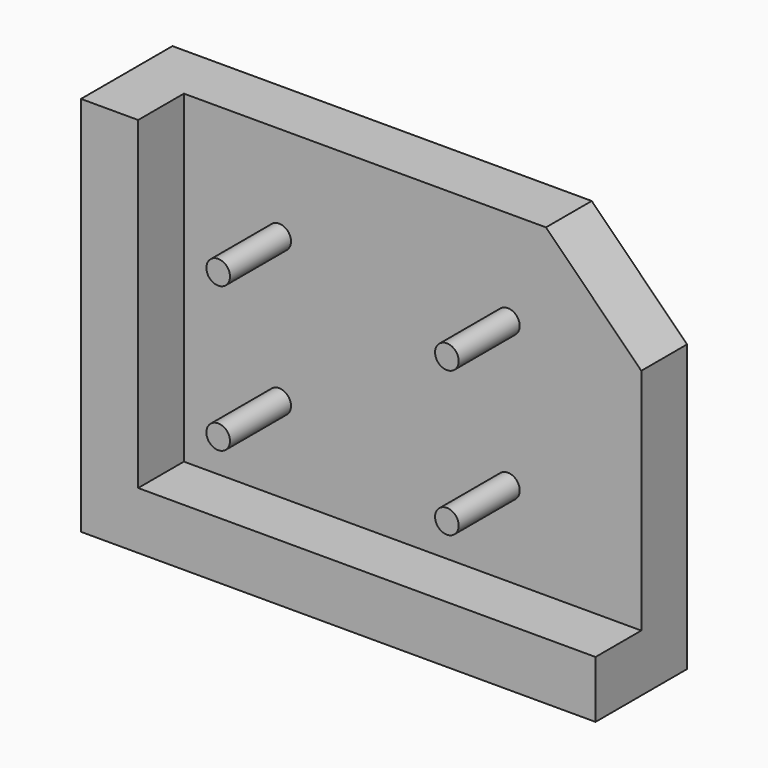
from build123d import *

# Parameters (mm, degrees)
F1_DEPTH = 38.1
F2_W     = 19.05
F2_H     = 107.95
F3_DEPTH = 152.4
F4_SIZE  = 31.75
F5_R     = 3.937
F6_DEPTH = 25.4


with BuildPart() as f1:
    # F0 (on Front) → F1 (new body)
    with BuildSketch(Plane.XZ):
        Polygon((0, 0), (9.30349, 0), (171.45, 0), (171.45, 19.05), (19.05, 19.05), (19.05, 127), (0, 127), align=None)
    extrude(amount=F1_DEPTH)

    # F2 (on face) → F3 (join, through all)
    with BuildSketch(Plane.YZ.offset(19.05)):
        with Locations((-9.525, 73.025)):
            Rectangle(F2_W, F2_H)
    extrude(amount=F3_DEPTH)

    # F4
    f4_edges = [f1.edges().sort_by_distance(p)[0] for p in [
        (171.45, -9.525, 127),
    ]]
    chamfer(f4_edges, length=F4_SIZE)

    # F5 (on face) → F6 (join)
    with BuildSketch(Plane.XZ.offset(19.05)):
        with Locations((50.8, 95.25)):
            Circle(F5_R)
        with Locations((127, 95.25)):
            Circle(F5_R)
        with Locations((127, 46.99)):
            Circle(F5_R)
        with Locations((50.8, 46.99)):
            Circle(F5_R)
    extrude(amount=F6_DEPTH)


solid = f1.part
